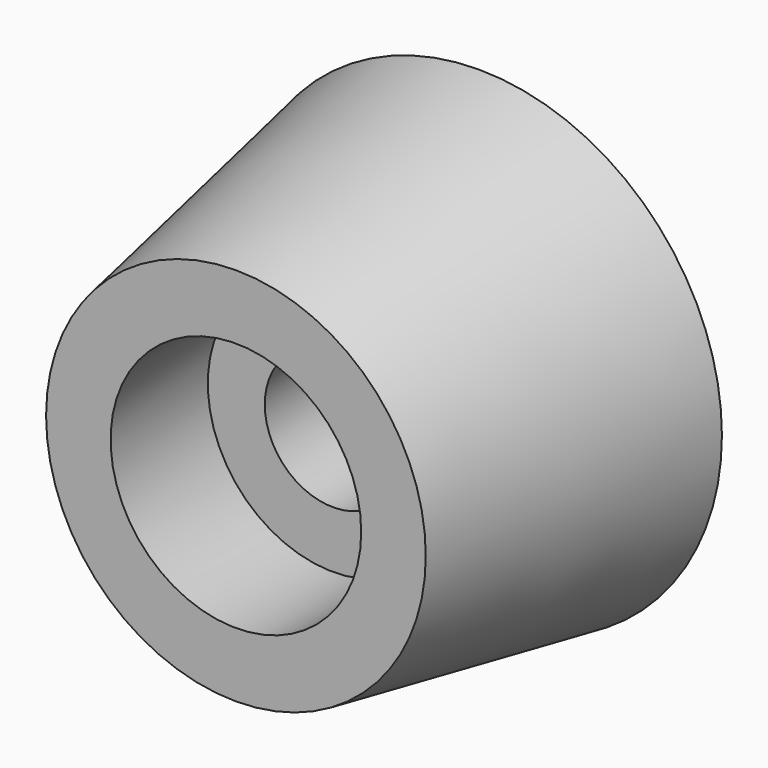
from build123d import *

# Parameters (mm, degrees)
F0_R           = 8
F2_R           = 6.25
F5_D           = 4.5
F5_CBORE_D     = 8.25
F5_CBORE_DEPTH = 4


with BuildPart() as f3:
    # F0 (on Front) → F3 section 0
    with BuildSketch(Plane.XZ):
        Circle(F0_R)
    # F2 (on offset) → F3 section 1
    with BuildSketch(Plane.XZ.offset(10)):
        Circle(F2_R)
    loft()

    # F5 (through all)
    with Locations(Plane.XZ.offset(10)):
        with Locations((0, 0)):
            CounterBoreHole(F5_D / 2, F5_CBORE_D / 2, F5_CBORE_DEPTH)


solid = f3.part
